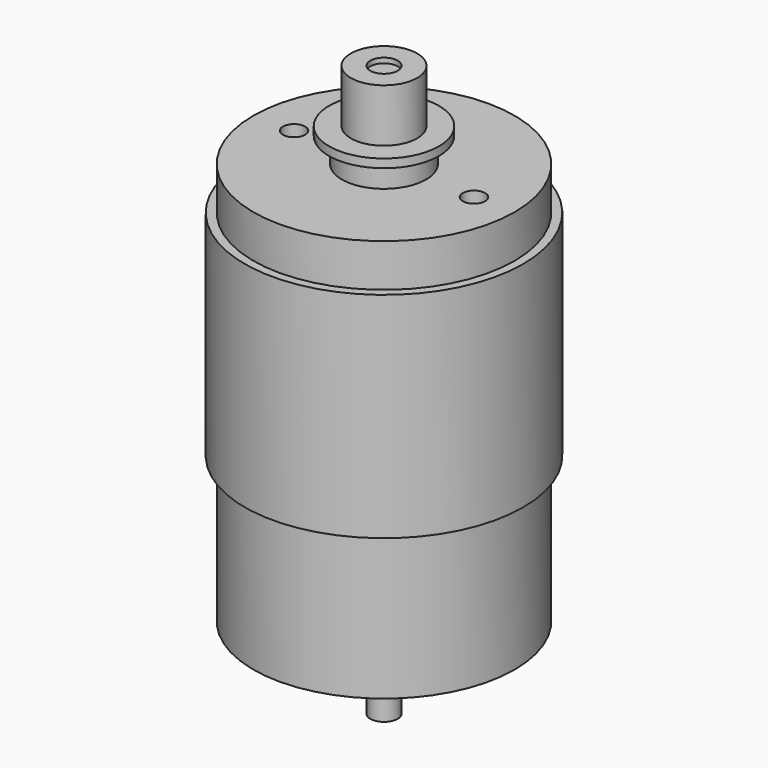
from build123d import *

# Parameters (mm, degrees)
F3_D     = 2.6
F3_DEPTH = 5
F3_TIP   = 0.7811188047


with BuildPart() as f1:
    # F0 (on Front) → F1 (revolve)
    with BuildSketch(Plane.XZ):
        Polygon((1.6, 33), (0, 33), (0, -33), (1.6, -33), (1.6, -26), (4.925, -26), (4.925, -23.5), (15.25, -23.5), (15.25, -6.5), (16.25, -6.5), (16.25, 18.5), (15.25, 18.5), (15.25, 23.5), (4.925, 23.5), (4.925, 26), (1.6, 26), align=None)
    revolve(axis=Axis((0, 0, 0), (0, 0, -1)))

    # F3
    with Locations(Plane.XY.offset(23.5)):
        with Locations((-10.5, 0), (10.5, 0)):
            Hole(F3_D / 2, depth=F3_DEPTH)
            with Locations((0, 0, -(F3_DEPTH + F3_TIP / 2))):  # 118° drill point
                Cone(0, F3_D / 2, F3_TIP, mode=Mode.SUBTRACT)

    # F4 (on Front) → F5 (revolve)
    with BuildSketch(Plane.XZ):
        Polygon((3.875, 27.3875447527), (3.875, 33.5875447527), (1.6, 33.5875447527), (1.6, 26.3875447527), (6.4063321701, 26.3875447527), (6.4063321701, 27.3875447527), align=None)
    revolve(axis=Axis((0, 0, 0), (0, 0, -1)))


solid = f1.part
